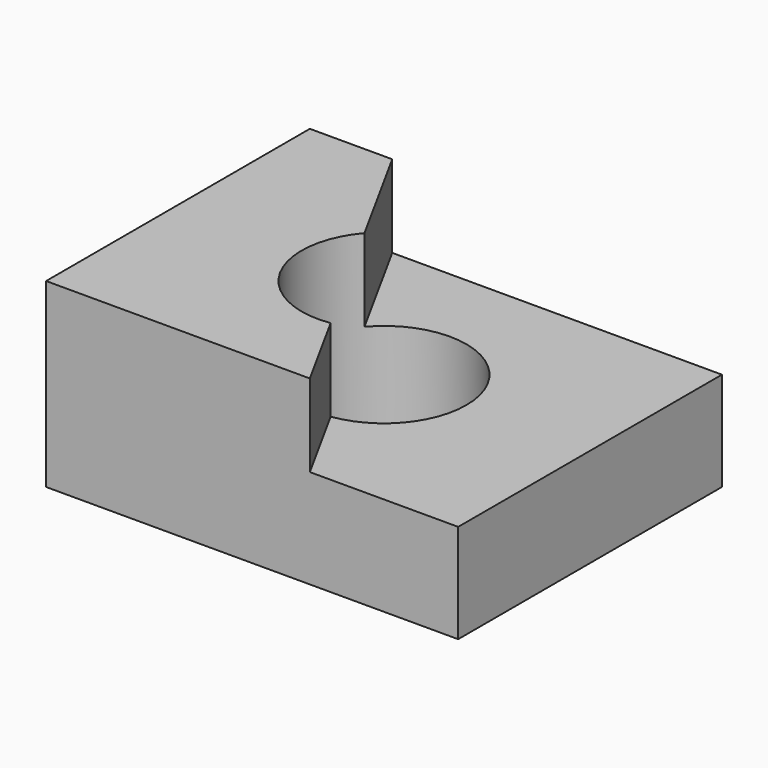
from build123d import *

# Parameters (mm, degrees)
F0_W     = 100
F0_H     = 80
F0_R     = 20
F1_DEPTH = 44
F3_DEPTH = 20


with BuildPart() as f1:
    # F0 (on Top) → F1 (new body)
    with BuildSketch(Plane.XY):
        Rectangle(F0_W, F0_H)
        Circle(F0_R, mode=Mode.SUBTRACT)
    extrude(amount=F1_DEPTH)

    # F2 (on face) → F3 (cut)
    with BuildSketch(Plane.XY.offset(44)):
        with BuildLine():
            Line((50, -40), (50, 40))
            Line((50, 40), (-30, 40))
            Line((-30, 40), (-15.1690265486, 13.0345937247))
            ThreePointArc((-15.1690265486, 13.0345937247), (6.9505204492, 18.7534067701), (20, 0))
            ThreePointArc((20, 0), (15.1277749358, -13.0824472287), (2.8849574507, -19.7908317285))
            Line((2.8849574507, -19.7908317285), (14, -40))
            Line((14, -40), (50, -40))
        make_face()
    extrude(amount=-F3_DEPTH, mode=Mode.SUBTRACT)


solid = f1.part
